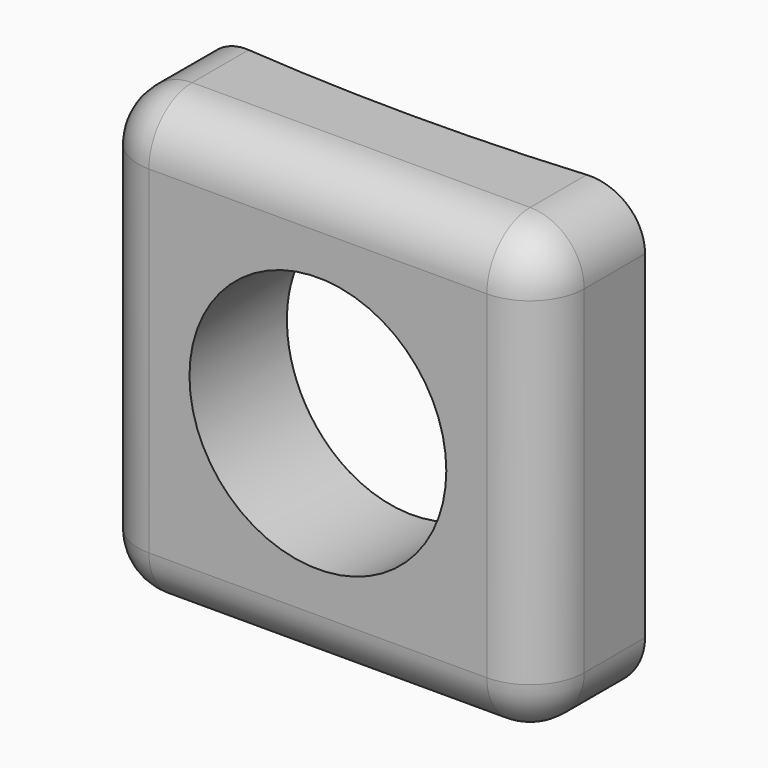
from build123d import *

# Parameters (mm, degrees)
F0_W     = 33
F0_H     = 33
F0_R     = 9.5
F1_DEPTH = 10
F2_R     = 4
F4_DEPTH = 500


with BuildPart() as f1:
    # F0 (on Front) → F1 (new body)
    with BuildSketch(Plane.XZ):
        Rectangle(F0_W, F0_H)
        Circle(F0_R, mode=Mode.SUBTRACT)
    extrude(amount=F1_DEPTH)

    # F2
    f2_edges = [f1.edges().sort_by_distance(p)[0] for p in [
        (0, -10, 16.5),
        (16.5, -10, 0),
        (-16.5, -10, 0),
        (0, -10, -16.5),
        (-16.5, -5, 16.5),
        (16.5, -5, 16.5),
        (16.5, -5, -16.5),
        (-16.5, -5, -16.5),
    ]]
    fillet(f2_edges, radius=F2_R)

    # F3 (on face) → F4 (cut)
    with BuildSketch(Plane.XY.offset(16.5)):
        with BuildLine():
            Line((-12.5, 0), (-12.5, -0.76783))
            ThreePointArc((-12.5, -0.76783), (0, -1.28957), (12.5, -0.76783))
            Line((12.5, -0.76783), (12.5, 0))
            Line((12.5, 0), (-12.5, 0))
        make_face()
        with BuildLine():
            ThreePointArc((12.5, -0.76783), (110.397011, 47.15995), (150, 148.71043))
            ThreePointArc((150, 148.71043), (-101.55048, 259.10744), (-12.5, -0.76783))
            Line((-12.5, -0.76783), (-12.5, 0))
            Line((-12.5, 0), (12.5, 0))
            Line((12.5, 0), (12.5, -0.76783))
        make_face()
    extrude(amount=-F4_DEPTH, mode=Mode.SUBTRACT)


solid = f1.part
